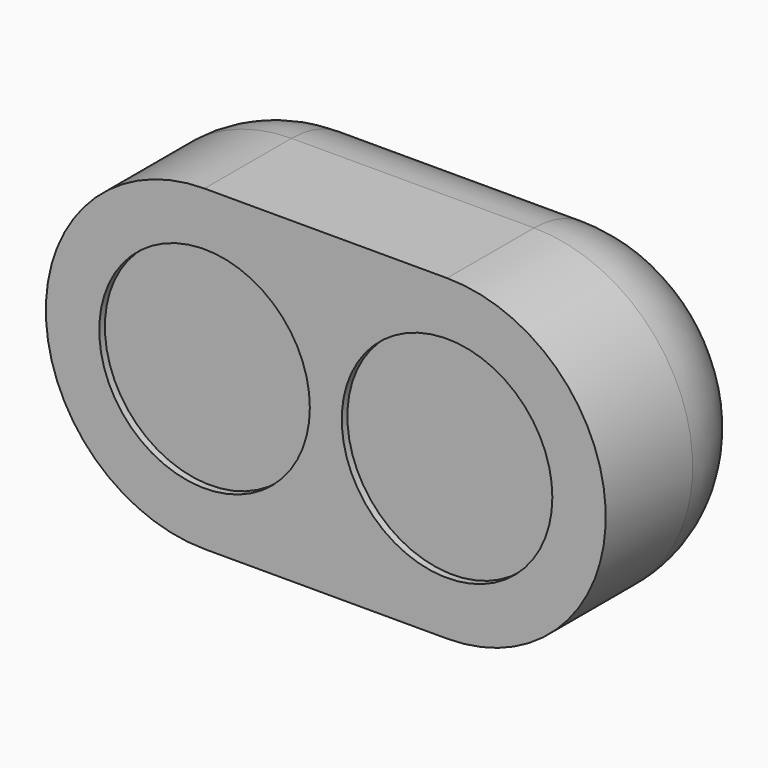
from build123d import *

# Parameters (mm, degrees)
PAD_DEPTH    = 30.48
FILLET_R     = 15
SKETCH001_R  = 15
POCKET_DEPTH = 1


with BuildPart() as part:
    # Sketch → Pad (new body)
    with BuildSketch(Plane.XZ):
        with BuildLine():
            ThreePointArc((-17.272, 22.606), (-39.878, 0), (-17.272, -22.606))
            Line((-17.272, -22.606), (17.272, -22.606))
            ThreePointArc((17.272, -22.606), (39.878, 0), (17.272, 22.606))
            Line((-17.272, 22.606), (17.272, 22.606))
        make_face()
    extrude(amount=PAD_DEPTH)

    # Fillet
    fillet_edges = [part.edges().sort_by_distance(p)[0] for p in [
        (0, 0, 22.606),
    ]]
    fillet(fillet_edges, radius=FILLET_R)

    # Sketch001 (on Face4 of Fillet) → Pocket (cut)
    with BuildSketch(Plane.XZ.offset(30.48)):
        with Locations((-17.272, 0)):
            Circle(SKETCH001_R)
        with Locations((17.272, 0)):
            Circle(SKETCH001_R)
    extrude(amount=-POCKET_DEPTH, mode=Mode.SUBTRACT)


solid = part.part
